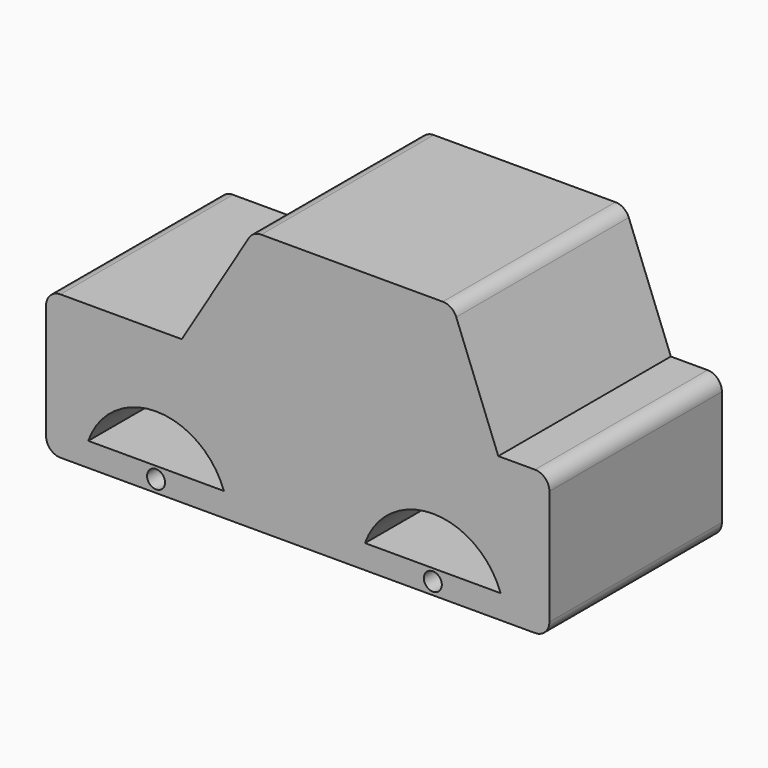
from build123d import *

# Parameters (mm, degrees)
F0_W      = 177.8
F0_H      = 76.2
F1_DEPTH  = 101.6
F3_DEPTH  = 203.2
F4_R      = 5.08
F5_W      = 70.067029912
F5_H      = 45.8034253509
F6_DEPTH  = 3.81
F8_DEPTH  = 203.2
F10_DEPTH = 76.2
F11_R     = 3.175
F12_DEPTH = 76.2


with BuildPart() as f1:
    # F0 (on Top) → F1 (new body)
    with BuildSketch(Plane.XY):
        with Locations((88.9, -38.1)):
            Rectangle(F0_W, F0_H)
    extrude(amount=F1_DEPTH)

    # F2 (on face) → F3 (cut)
    with BuildSketch(Plane.XZ.offset(76.2)):
        Polygon((0, 101.6), (0, 50.8), (47.9459241033, 50.8), (73.1289312243, 92.4461781979), (143.6413377523, 92.4461781979), (159.7584486008, 50.8), (177.8, 50.8), (177.8, 101.6), align=None)
    extrude(amount=-F3_DEPTH, mode=Mode.SUBTRACT)

    # F4
    f4_edges = [f1.edges().sort_by_distance(p)[0] for p in [
        (0, -38.1, 50.8),
        (73.128931, -38.1, 92.446178),
        (143.641338, -38.1, 92.446178),
        (177.8, -38.1, 50.8),
        (177.8, -38.1, 0),
        (0, -38.1, 0),
    ]]
    fillet(f4_edges, radius=F4_R)

    # F5 (on face) → F6 (cut)
    with BuildSketch(Plane(origin=(12.6150217606, 0, -7.6281713371), x_dir=(0, -1, 0), z_dir=(-0.8557174536, 0, 0.5174433684))):
        with Locations((38.0591393914, 91.1814597909)):
            Rectangle(F5_W, F5_H)
    extrude(amount=-F6_DEPTH, mode=Mode.SUBTRACT)

    # F7 (on face) → F8 (cut)
    with BuildSketch(Plane.XZ.offset(76.2)):
        with BuildLine():
            ThreePointArc((162.0320997477, 0), (136.6320997477, 25.4), (111.2320997477, 0))
            Line((111.2320997477, 0), (162.0320997477, 0))
        make_face()
        with BuildLine():
            Line((13.4567559421, 0), (64.2567559421, 0))
            ThreePointArc((64.2567559421, 0), (38.8567559421, 25.4), (13.4567559421, 0))
        make_face()
    extrude(amount=-F8_DEPTH, mode=Mode.SUBTRACT)

    # F9 (on face) → F10 (join)
    with BuildSketch(Plane(origin=(0, 0, 0), x_dir=(-1, 0, 0), z_dir=(0, 1, 0))):
        with BuildLine():
            ThreePointArc((-160.5904804881, 8.4354011342), (-161.6691010738, 4.2788508499), (-162.0320997477, 0))
            Line((-162.0320997477, 0), (-111.2320997477, 0))
            ThreePointArc((-111.2320997477, 0), (-111.5950984215, 4.2788508499), (-112.6737190072, 8.4354011342))
            Line((-112.6737190072, 8.4354011342), (-160.5904804881, 8.4354011342))
        make_face()
        with BuildLine():
            ThreePointArc((-62.8151366826, 8.4354011342), (-63.8937572682, 4.2788508499), (-64.2567559421, 0))
            Line((-64.2567559421, 0), (-13.4567559421, 0))
            ThreePointArc((-13.4567559421, 0), (-13.819754616, 4.2788508499), (-14.8983752016, 8.4354011342))
            Line((-14.8983752016, 8.4354011342), (-62.8151366826, 8.4354011342))
        make_face()
    extrude(amount=-F10_DEPTH)

    # F11 (on face) → F12 (cut)
    with BuildSketch(Plane.XZ.offset(76.2)):
        with Locations((38.8567559421, 4.3010804802)):
            Circle(F11_R)
        with Locations((136.6320997477, 4.3010804802)):
            Circle(F11_R)
    extrude(amount=-F12_DEPTH, mode=Mode.SUBTRACT)


solid = f1.part
